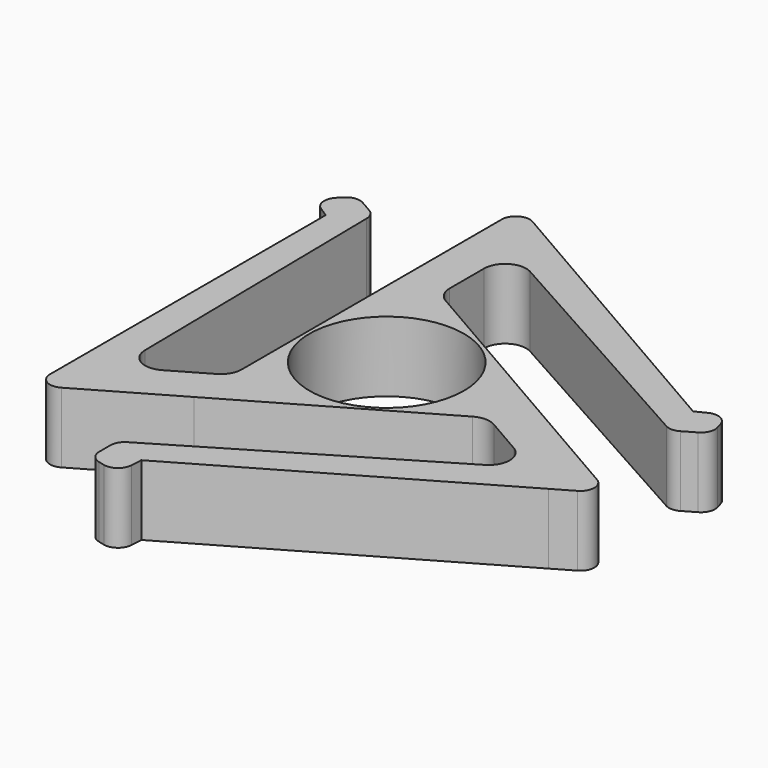
from build123d import *

# Parameters (mm, degrees)
F0_R     = 11
F1_DEPTH = 10
F2_R     = 2
F3_R     = 3


with BuildPart() as f1:
    # F0 (on Top) → F1 (new body)
    with BuildSketch(Plane.XY):
        with BuildLine():
            Line((33.9994544901, 12.0421032112), (38.9284945409, 9.196320611))
            ThreePointArc((38.9284945409, 9.196320611), (38.3009590814, 11.5341464117), (37.5331647861, 13.8297339504))
            Line((37.5331647861, 13.8297339504), (33.9994544901, 12.0421032112))
        make_face()
        with BuildLine():
            Line((-27.4284945409, 23.4233396976), (-27.4284945409, 29.114904898))
            ThreePointArc((-27.4284945409, 29.114904898), (-29.1393433442, 27.4025303479), (-30.7434833217, 25.589807214))
            Line((-30.7434833217, 25.589807214), (-27.4284945409, 23.4233396976))
        make_face()
        with BuildLine():
            ThreePointArc((-11.5, -38.311225509), (-9.1616157371, -38.9366767596), (-6.7896814644, -39.4195411644))
            Line((-6.7896814644, -39.4195411644), (-6.5709599492, -35.4654429088))
            Line((-6.5709599492, -35.4654429088), (-11.5, -38.311225509))
        make_face()
        Polygon((-5.6430600129, 34.9297196308), (-11.5, 38.311225509), (-11.5, 32.768458128), (-5.6430600129, 29.496919338), align=None)
        Polygon((-27.4284945409, -22.3518931417), (-27.4284945409, -29.114904898), (-22.6283171817, -26.3435212075), (-22.7235514736, -19.6354929953), align=None)
        Polygon((33.0715545538, -12.5778264891), (38.9284945409, -9.196320611), (34.1283171817, -6.4249369205), (28.3666114865, -9.8614263427), align=None)
        Polygon((34.8825001806, 6.8603646779), (38.9284945409, 9.196320611), (33.9994544901, 12.0421032112), (-5.6430600129, 34.9297196308), (-5.6430600129, 29.496919338), align=None)
        Polygon((-23.3825001806, 26.778948965), (-27.4284945409, 29.114904898), (-27.4284945409, 23.4233396976), (-27.4284945409, -22.3518931417), (-22.7235514736, -19.6354929953), align=None)
        Polygon((-6.5709599492, -35.4654429088), (33.0715545538, -12.5778264891), (28.3666114865, -9.8614263427), (-11.5, -33.6393136429), (-11.5, -38.311225509), align=None)
        Polygon((17.1430600129, -3.3815058782), (23, 0), (-5.6430600129, 16.5370784089), (-11.5, 19.918584287), (-11.5, -13.1555725307), (-11.5, -19.918584287), align=None)
        Circle(F0_R, mode=Mode.SUBTRACT)
        Polygon((-5.6430600129, 16.5370784089), (-5.6430600129, 29.496919338), (-11.5, 32.768458128), (-11.5, 19.918584287), align=None)
        Polygon((-22.6283171817, -26.3435212075), (-11.5, -19.918584287), (-11.5, -13.1555725307), (-22.7235514736, -19.6354929953), align=None)
        Polygon((28.3666114865, -9.8614263427), (34.1283171817, -6.4249369205), (23, 0), (17.1430600129, -3.3815058782), align=None)
    extrude(amount=F1_DEPTH)

    # F2
    f2_edges = [f1.edges().sort_by_distance(p)[0] for p in [
        (37.533165, 13.829734, 5),
        (-11.5, 38.311226, 5),
        (38.928495, -9.196321, 5),
        (38.928495, 9.196321, 5),
        (34.8825, 6.860365, 5),
        (-6.789681, -39.419541, 5),
        (-11.5, -33.639314, 5),
        (-11.5, -38.311226, 5),
        (-27.428495, -29.114905, 5),
        (-30.743483, 25.589807, 5),
        (-27.428495, 29.114905, 5),
        (-23.3825, 26.778949, 5),
    ]]
    fillet(f2_edges, radius=F2_R)

    # F3
    f3_edges = [f1.edges().sort_by_distance(p)[0] for p in [
        (28.366611, -9.861426, 5),
        (17.14306, -3.381506, 5),
        (-5.64306, 16.537078, 5),
        (-5.64306, 29.496919, 5),
        (-11.5, -13.155573, 5),
        (-22.723551, -19.635493, 5),
    ]]
    fillet(f3_edges, radius=F3_R)


solid = f1.part
